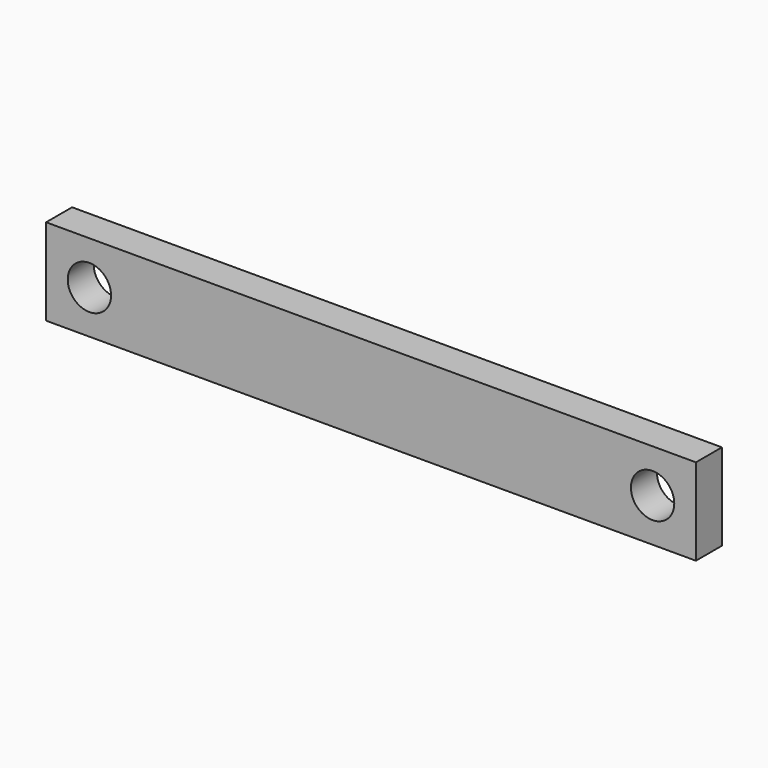
from build123d import *

# Parameters (mm, degrees)
F0_W     = 150
F0_H     = 20
F0_R     = 5
F1_DEPTH = 3.75


with BuildPart() as f1:
    # F0 (on Front) → F1 (new body, symmetric)
    with BuildSketch(Plane.XZ):
        Rectangle(F0_W, F0_H)
        with Locations((-65, 0)):
            Circle(F0_R, mode=Mode.SUBTRACT)
        with Locations((65, 0)):
            Circle(F0_R, mode=Mode.SUBTRACT)
    extrude(amount=F1_DEPTH, both=True)


solid = f1.part
